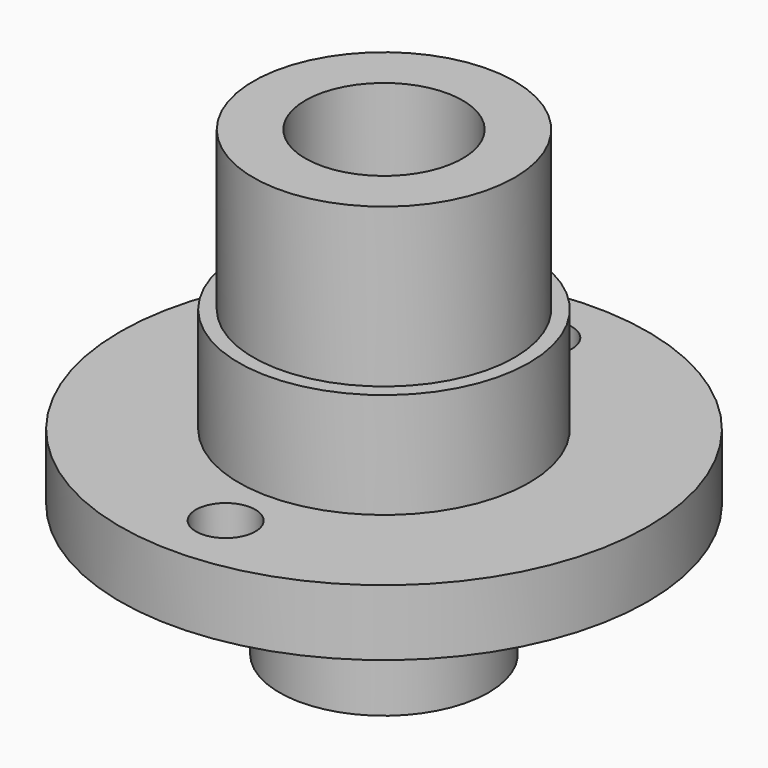
from build123d import *

# Parameters (mm, degrees)
F0_R     = 20
F1_DEPTH = 5
F2_R     = 11
F3_DEPTH = 8
F4_R     = 9.9
F5_DEPTH = 12
F6_R     = 7.925
F7_DEPTH = 10
F9_D     = 11.92
F11_D    = 4.5


with BuildPart() as f1:
    # F0 (on Top) → F1 (new body)
    with BuildSketch(Plane.XY):
        Circle(F0_R)
    extrude(amount=F1_DEPTH)

    # F2 (on face) → F3 (join)
    with BuildSketch(Plane.XY.offset(5)):
        Circle(F2_R)
    extrude(amount=F3_DEPTH)

    # F4 (on face) → F5 (join)
    with BuildSketch(Plane.XY.offset(13)):
        Circle(F4_R)
    extrude(amount=F5_DEPTH)

    # F6 (on face) → F7 (join)
    with BuildSketch(Plane(origin=(0, 0, 0), x_dir=(1, 0, 0), z_dir=(0, 0, -1))):
        Circle(F6_R)
    extrude(amount=F7_DEPTH)

    # F9 (through all)
    with Locations(Plane.XY.offset(25)):
        with Locations((0, 0)):
            Hole(F9_D / 2)

    # F11 (through all)
    with Locations(Plane(origin=(0, 0, 0), x_dir=(1, 0, 0), z_dir=(0, 0, -1))):
        with Locations((0, -15), (0, 15)):
            Hole(F11_D / 2)


solid = f1.part
